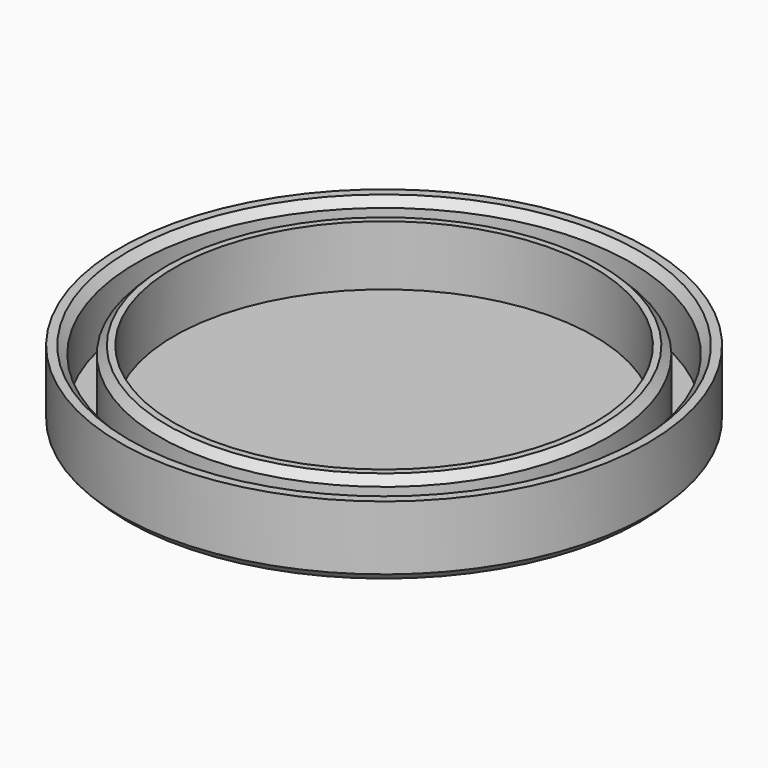
from build123d import *

# Parameters (mm, degrees)
F0_R     = 44
F1_DEPTH = 2
F2_R     = 44
F2_R_2   = 41.25
F2_R_3   = 37.4
F2_R_4   = 35
F3_DEPTH = 10
F4_SIZE  = 1.3


with BuildPart() as f1:
    # F0 (on Top) → F1 (new body)
    with BuildSketch(Plane.XY):
        Circle(F0_R)
    extrude(amount=F1_DEPTH)

    # F2 (on face) → F3 (join)
    with BuildSketch(Plane.XY.offset(2)):
        Circle(F2_R)
        Circle(F2_R_2, mode=Mode.SUBTRACT)
        Circle(F2_R_3)
        Circle(F2_R_4, mode=Mode.SUBTRACT)
    extrude(amount=F3_DEPTH)

    # F4
    f4_edges = [f1.edges().sort_by_distance(p)[0] for p in [
        (-41.25, 0, 12),
        (-37.4, 0, 12),
        (-44, 0, 0),
    ]]
    chamfer(f4_edges, length=F4_SIZE)


solid = f1.part
